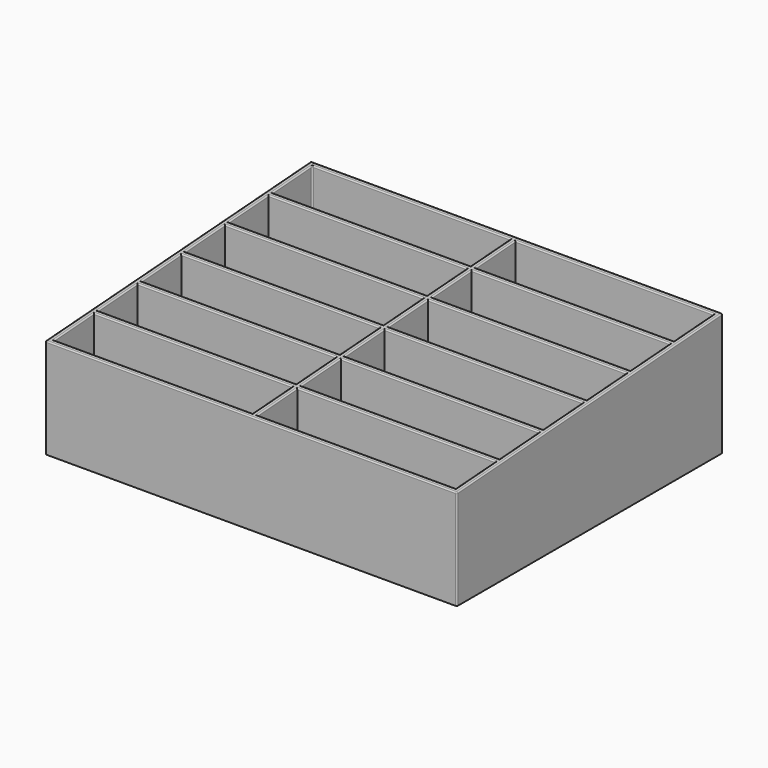
from build123d import *

# Parameters (mm, degrees)
SKETCH_W     = 166
SKETCH_H     = 134
SKETCH_W_2   = 80
SKETCH_H_2   = 20
PAD_DEPTH    = 50
POCKET_DEPTH = 166.001
SKETCH002_W  = 30
SKETCH002_H  = 130
PAD001_DEPTH = 2
FILLET_R     = 0.5


with BuildPart() as part:
    # Sketch → Pad (new body)
    with BuildSketch(Plane.XY):
        Rectangle(SKETCH_W, SKETCH_H)
        with Locations((-41, -55)):
            Rectangle(SKETCH_W_2, SKETCH_H_2, mode=Mode.SUBTRACT)
        with Locations((-41, -33)):
            Rectangle(SKETCH_W_2, SKETCH_H_2, mode=Mode.SUBTRACT)
        with Locations((-41, -11)):
            Rectangle(SKETCH_W_2, SKETCH_H_2, mode=Mode.SUBTRACT)
        with Locations((-41, 11)):
            Rectangle(SKETCH_W_2, SKETCH_H_2, mode=Mode.SUBTRACT)
        with Locations((-41, 33)):
            Rectangle(SKETCH_W_2, SKETCH_H_2, mode=Mode.SUBTRACT)
        with Locations((-41, 55)):
            Rectangle(SKETCH_W_2, SKETCH_H_2, mode=Mode.SUBTRACT)
        with Locations((41, 55)):
            Rectangle(SKETCH_W_2, SKETCH_H_2, mode=Mode.SUBTRACT)
        with Locations((41, 33)):
            Rectangle(SKETCH_W_2, SKETCH_H_2, mode=Mode.SUBTRACT)
        with Locations((41, 11)):
            Rectangle(SKETCH_W_2, SKETCH_H_2, mode=Mode.SUBTRACT)
        with Locations((41, -11)):
            Rectangle(SKETCH_W_2, SKETCH_H_2, mode=Mode.SUBTRACT)
        with Locations((41, -33)):
            Rectangle(SKETCH_W_2, SKETCH_H_2, mode=Mode.SUBTRACT)
        with Locations((41, -55)):
            Rectangle(SKETCH_W_2, SKETCH_H_2, mode=Mode.SUBTRACT)
    extrude(amount=PAD_DEPTH)

    # Sketch001 (on Face2 of Pad) → Pocket (cut, through all)
    with BuildSketch(Plane.YZ.offset(83)):
        Polygon((-72, 40), (72, 50), (72, 60), (-72, 60), align=None)
    extrude(amount=-POCKET_DEPTH, mode=Mode.SUBTRACT)

    # Sketch002 (on Face2 of Pocket) → Pad001 (join)
    with BuildSketch(Plane(origin=(0, 0, 0), x_dir=(1, 0, 0), z_dir=(0, 0, -1))):
        with Locations((-41, 0)):
            Rectangle(SKETCH002_W, SKETCH002_H)
        with Locations((41, 0)):
            Rectangle(SKETCH002_W, SKETCH002_H)
    extrude(amount=-PAD001_DEPTH)

    # Fillet
    fillet_edges = [part.edges().sort_by_distance(p)[0] for p in [
        (83, 0, 45),
        (0, 67, 49.652778),
        (-83, 0, 45),
        (0, -67, 40.347222),
        (-41, -65, 40.486111),
        (-81, -55, 41.180556),
        (-41, -45, 41.875),
        (-1, -55, 41.180556),
        (-81, -33, 42.708333),
        (-41, -23, 43.402778),
        (-1, -33, 42.708333),
        (-41, -43, 42.013889),
        (-81, -11, 44.236111),
        (-41, -1, 44.930556),
        (-1, -11, 44.236111),
        (-41, -21, 43.541667),
        (-81, 11, 45.763889),
        (-41, 21, 46.458333),
        (-1, 11, 45.763889),
        (-41, 1, 45.069444),
        (-81, 33, 47.291667),
        (-41, 43, 47.986111),
        (-1, 33, 47.291667),
        (-41, 23, 46.597222),
        (-81, 55, 48.819444),
        (-41, 65, 49.513889),
        (-1, 55, 48.819444),
        (-41, 45, 48.125),
        (81, -55, 41.180556),
        (41, -65, 40.486111),
        (1, -55, 41.180556),
        (41, -45, 41.875),
        (81, -33, 42.708333),
        (41, -43, 42.013889),
        (1, -33, 42.708333),
        (41, -23, 43.402778),
        (81, -11, 44.236111),
        (41, -21, 43.541667),
        (1, -11, 44.236111),
        (41, -1, 44.930556),
        (81, 11, 45.763889),
        (41, 1, 45.069444),
        (1, 11, 45.763889),
        (41, 21, 46.458333),
        (81, 33, 47.291667),
        (41, 23, 46.597222),
        (1, 33, 47.291667),
        (41, 43, 47.986111),
        (81, 55, 48.819444),
        (41, 45, 48.125),
        (1, 55, 48.819444),
        (41, 65, 49.513889),
        (-83, -67, 20.173611),
        (83, 67, 24.826389),
        (-81, 65, 24.756944),
        (83, -67, 20.173611),
    ]]
    fillet(fillet_edges, radius=FILLET_R)


solid = part.part
